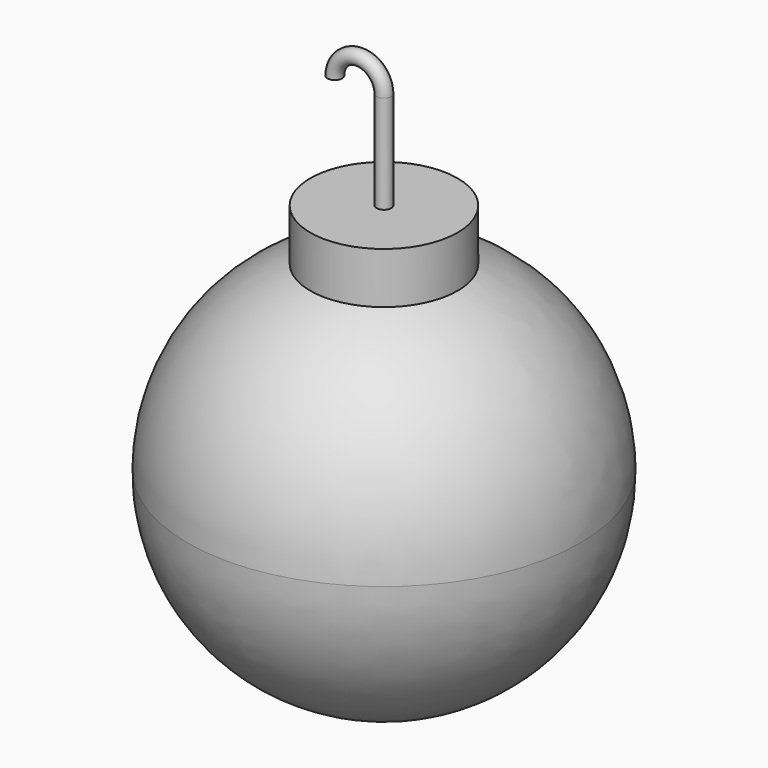
from build123d import *

# Parameters (mm, degrees)
F4_R     = 19.05
F5_DEPTH = 9.525
F6_R     = 1.905
F7_DEPTH = 25.4
F8_R     = 1.905
F9_ANGLE = 180


with BuildPart() as f2:
    # F1 (on Front) → F2 (revolve)
    with BuildSketch(Plane.XZ):
        with BuildLine():
            Line((-50.8, 0), (0, 0))
            Line((0, 0), (0, 50.8))
            ThreePointArc((0, 50.8), (-35.921024, 35.921024), (-50.8, 0))
        make_face()
        with BuildLine():
            Line((0, -50.8), (0, 0))
            Line((0, 0), (-50.8, 0))
            ThreePointArc((-50.8, 0), (-35.921024, -35.921024), (0, -50.8))
        make_face()
    revolve(axis=Axis((0, 0, 25.4), (0, 0, 1)))

    # F4 (on offset) → F5 (join, symmetric)
    with BuildSketch(Plane.XY.offset(50.8)):
        Circle(F4_R)
    extrude(amount=F5_DEPTH, both=True)

    # F6 (on face) → F7 (join)
    with BuildSketch(Plane.XY.offset(60.325)):
        Circle(F6_R)
    extrude(amount=F7_DEPTH)

    # F8 (on face) → F9 (revolve)
    with BuildSketch(Plane.XY.offset(85.725)):
        Circle(F8_R)
    revolve(axis=Axis((-6.35, -1.27, 85.725), (0, -1, 0)), revolution_arc=F9_ANGLE)


solid = f2.part
